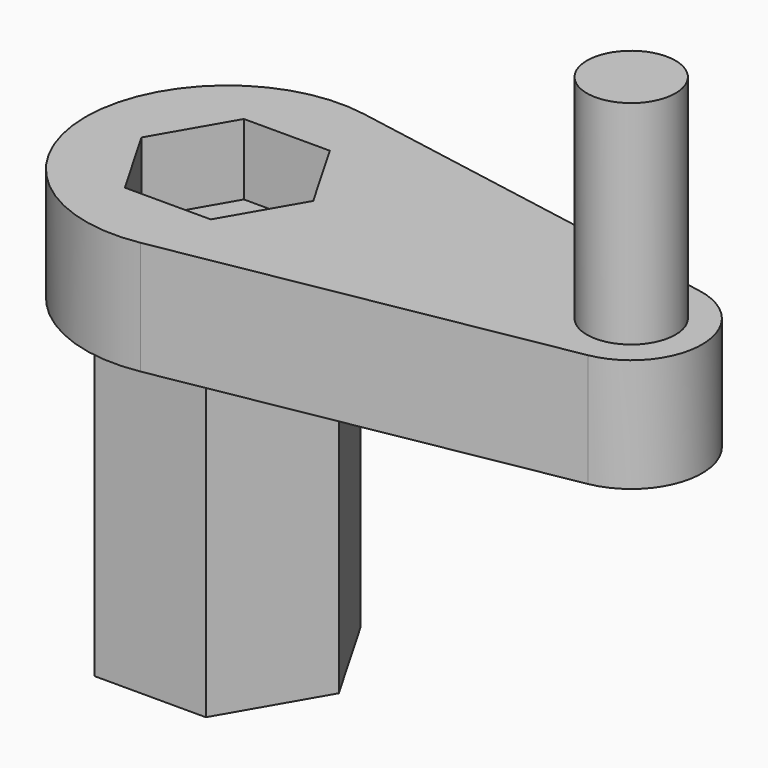
from build123d import *

# Parameters (mm, degrees)
PAD046_DEPTH    = 22
PAD047_DEPTH    = 8
SKETCH080_R     = 3.125
PAD048_DEPTH    = 15
SKETCH081_R     = 3
HOLE_DEPTH      = 30.001
POCKET037_DEPTH = 5


with BuildPart() as part:
    # Sketch078 → Pad046 (new body)
    with BuildSketch(Plane.XY):
        Polygon((3.933199, 6.8125), (-3.933199, 6.8125), (-7.866397, 0), (-3.933199, -6.8125), (3.933199, -6.8125), (7.866397, 0), align=None)
    extrude(amount=PAD046_DEPTH)

    # Sketch079 (on Face8 of Pad046) → Pad047 (join)
    with BuildSketch(Plane.XY.offset(22)):
        with BuildLine():
            ThreePointArc((1.754386, 9.844904), (-10, 0), (1.754386, -9.844904))
            Line((1.754386, -9.844904), (29.377193, -4.922452))
            ThreePointArc((29.377193, -4.922452), (33.5, 0), (29.377193, 4.922452))
            Line((29.377193, 4.922452), (1.754386, 9.844904))
        make_face()
    extrude(amount=PAD047_DEPTH)

    # Sketch080 (on Face5 of Pad047) → Pad048 (join)
    with BuildSketch(Plane.XY.offset(30)):
        with Locations((28.5, 0)):
            Circle(SKETCH080_R)
    extrude(amount=PAD048_DEPTH)

    # Sketch081 (on Face5 of Pad048) → Hole (cut, through all)
    with BuildSketch(Plane.XY.offset(30)):
        Circle(SKETCH081_R)
    extrude(amount=-HOLE_DEPTH, mode=Mode.SUBTRACT)

    # Sketch082 (on Face5 of Hole) → Pocket037 (cut)
    with BuildSketch(Plane.XY.offset(30)):
        Polygon((3.031089, 5.25), (-3.031089, 5.25), (-6.062178, 0), (-3.031089, -5.25), (3.031089, -5.25), (6.062178, 0), align=None)
    extrude(amount=-POCKET037_DEPTH, mode=Mode.SUBTRACT)


solid = part.part
